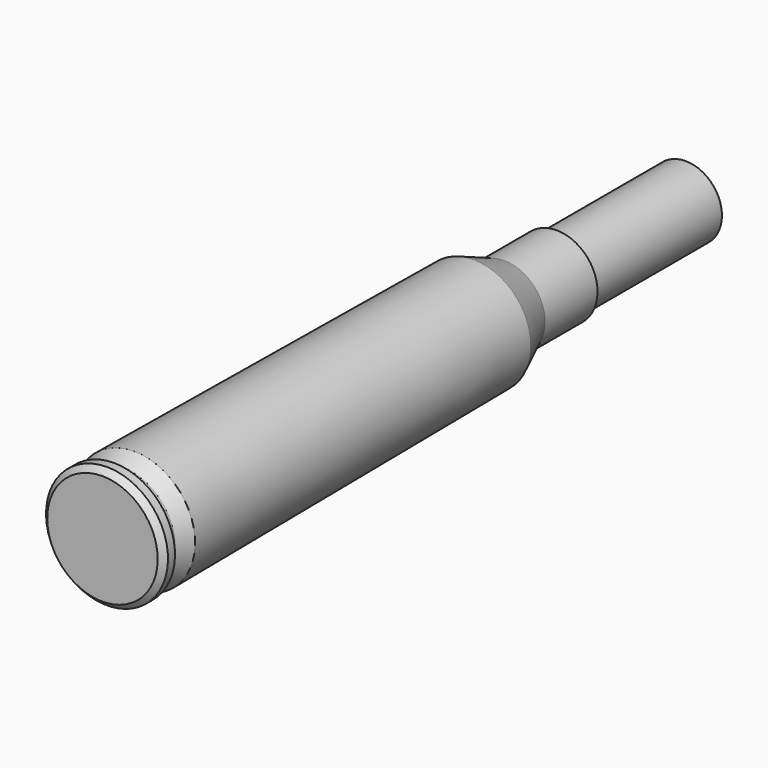
from build123d import *

# Parameters (mm, degrees)
F0_W   = 0.76
F0_H   = 4.215
F0_W_2 = 12.7
F0_H_2 = 2.85


with BuildPart() as f1:
    # F0 (on Right) → F1 (revolve)
    with BuildSketch(Plane.YZ):
        Polygon((0, 4.35), (0, 0), (0.45, 0), (1.14, 0), (1.14, 4.215), (1.14, 4.8), (0.45, 4.8), align=None)
        with Locations((1.52, 2.1075)):
            Rectangle(F0_W, F0_H)
        Polygon((1.9, 4.215), (1.9, 0), (3.13, 0), (3.13, 4.79), align=None)
        Polygon((3.13, 4.79), (3.13, 0), (36.52, 0), (36.52, 4.5), align=None)
        Polygon((36.52, 4.5), (36.52, 0), (39.55, 0), (44.7, 0), (44.7, 2.85), (44.7, 3.215), (39.55, 3.215), align=None)
        with Locations((51.05, 1.425)):
            Rectangle(F0_W_2, F0_H_2)
    revolve(axis=Axis((0, 19.825, 0), (0, 1, 0)))


solid = f1.part
